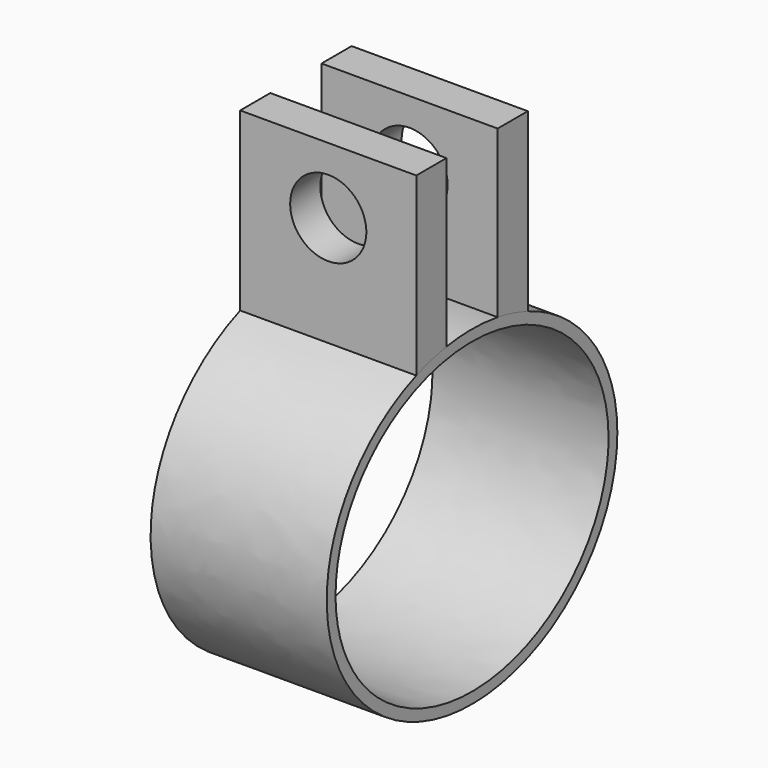
from build123d import *

# Parameters (mm, degrees)
F1_DEPTH = 10.16
F3_DEPTH = 10.16
F4_R     = 2.1971
F5_DEPTH = 25.4


with BuildPart() as f1:
    # F0 (on Right) → F1 (new body)
    with BuildSketch(Plane.YZ):
        with BuildLine():
            add(Edge.make_bspline(
                [(10.4775, 0), (10.4775, 16.497784), (-5.23875, 8.248892), (-20.955, 0), (-5.23875, -8.248892), (10.4775, -16.497784), (10.4775, 0)],
                knots=[0, 0, 0, 2.094395, 2.094395, 4.18879, 4.18879, 6.283185, 6.283185, 6.283185], degree=2, weights=[1, 0.5, 1, 0.5, 1, 0.5, 1]))
        make_face()
        with BuildLine():
            add(Edge.make_bspline(
                [(9.8425, 0), (9.8425, 15.397932), (-4.92125, 7.698966), (-19.685, 0), (-4.92125, -7.698966), (9.8425, -15.397932), (9.8425, 0)],
                knots=[0, 0, 0, 2.094395, 2.094395, 4.18879, 4.18879, 6.283185, 6.283185, 6.283185], degree=2, weights=[1, 0.5, 1, 0.5, 1, 0.5, 1]))
        make_face(mode=Mode.SUBTRACT)
    extrude(amount=F1_DEPTH)

    # F2 (on face) → F3 (join)
    with BuildSketch(Plane.YZ.offset(10.16)):
        with BuildLine():
            Line((-4.018658, 18.956524), (-4.018658, 8.796524))
            add(Edge.make_bspline(
                [(-1.845753, 9.376038), (-2.966852, 9.193643), (-4.018658, 8.796524)],
                knots=[1.709992, 1.709992, 1.709992, 1.942724, 1.942724, 1.942724], degree=2, weights=[0.850147, 0.885313, 0.932827]))
            Line((-1.845753, 9.376038), (-1.845753, 18.956524))
            Line((-1.845753, 18.956524), (-4.018658, 18.956524))
        make_face()
        with BuildLine():
            Line((1.845753, 18.956524), (1.845753, 9.376038))
            add(Edge.make_bspline(
                [(4.018658, 8.796524), (2.966852, 9.193643), (1.845753, 9.376038)],
                knots=[1.165225, 1.165225, 1.165225, 1.364631, 1.364631, 1.364631], degree=2, weights=[0.753176, 0.758541, 0.772971]))
            Line((4.018658, 8.796524), (4.018658, 18.956524))
            Line((4.018658, 18.956524), (1.845753, 18.956524))
        make_face()
    extrude(amount=-F3_DEPTH)

    # F4 (on face) → F5 (cut)
    with BuildSketch(Plane(origin=(0, 4.018658, 0), x_dir=(-1, 0, 0), z_dir=(0, 1, 0))):
        with Locations((-5.08, 15.146524)):
            Circle(F4_R)
    extrude(amount=-F5_DEPTH, mode=Mode.SUBTRACT)


solid = f1.part
